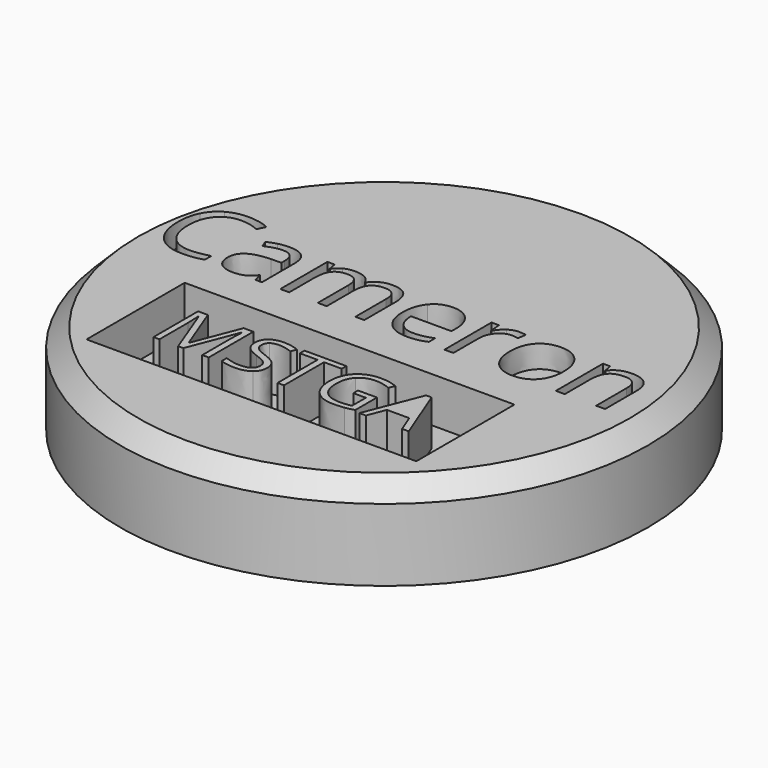
from build123d import *

# Parameters (mm, degrees)
F0_R     = 29.2480899821
F1_DEPTH = 7.5
F2_R     = 29.2480899821
F3_DEPTH = 2.5
F4_W     = 36.5422684699
F4_H     = 13.5971242562
F5_DEPTH = 5
F6_SIZE  = 2


with BuildPart() as f1:
    # F0 (on Top) → F1 (new body)
    with BuildSketch(Plane.XY):
        Circle(F0_R)
    extrude(amount=F1_DEPTH)

    # F2 (on face) → F3 (join)
    with BuildSketch(Plane.XY.offset(7.5)):
        Circle(F2_R)
        with BuildLine():
            add(Edge.make_bspline(
                [(-20.1253182964, 7.4627292011), (-21.1143776568, 7.9258147976), (-22.1034370172, 7.9258147976)],
                knots=[0, 0, 0, 1, 1, 1], degree=2))
            add(Edge.make_bspline(
                [(-22.1034370172, 7.9258147976), (-23.5384306557, 7.9258147976), (-24.3693167465, 6.9701052229)],
                knots=[0, 0, 0, 1, 1, 1], degree=2))
            add(Edge.make_bspline(
                [(-24.3693167465, 6.9701052229), (-25.2002028374, 6.0143956483), (-25.2002028374, 4.3526234666)],
                knots=[0, 0, 0, 1, 1, 1], degree=2))
            add(Edge.make_bspline(
                [(-25.2002028374, 4.3526234666), (-25.2002028374, 2.6451144359), (-24.3988551282, 1.7122732858)],
                knots=[0, 0, 0, 1, 1, 1], degree=2))
            add(Edge.make_bspline(
                [(-24.3988551282, 1.7122732858), (-23.5975074191, 0.7794321357), (-22.1148712295, 0.7794321357)],
                knots=[0, 0, 0, 1, 1, 1], degree=2))
            add(Edge.make_bspline(
                [(-22.1148712295, 0.7794321357), (-21.2039456528, 0.7794321357), (-20.0357503003, 1.1072128871)],
                knots=[0, 0, 0, 1, 1, 1], degree=2))
            Line((-20.0357503003, 1.1072128871), (-20.0357503003, 0.221061437))
            add(Edge.make_bspline(
                [(-20.0357503003, 0.221061437), (-20.9409587709, -0.1200592287), (-22.269233095, -0.1200592287)],
                knots=[0, 0, 0, 1, 1, 1], degree=2))
            add(Edge.make_bspline(
                [(-22.269233095, -0.1200592287), (-24.1920864565, -0.1200592287), (-25.2373640272, 1.0481361238)],
                knots=[0, 0, 0, 1, 1, 1], degree=2))
            add(Edge.make_bspline(
                [(-25.2373640272, 1.0481361238), (-26.2826415979, 2.2163314762), (-26.2826415979, 4.3659633809)],
                knots=[0, 0, 0, 1, 1, 1], degree=2))
            add(Edge.make_bspline(
                [(-26.2826415979, 4.3659633809), (-26.2826415979, 5.7113890234), (-25.7795362585, 6.7233168083)],
                knots=[0, 0, 0, 1, 1, 1], degree=2))
            add(Edge.make_bspline(
                [(-25.7795362585, 6.7233168083), (-25.2764309191, 7.7352445933), (-24.3264384506, 8.2831339307)],
                knots=[0, 0, 0, 1, 1, 1], degree=2))
            add(Edge.make_bspline(
                [(-24.3264384506, 8.2831339307), (-23.376445982, 8.8310232681), (-22.0900971029, 8.8310232681)],
                knots=[0, 0, 0, 1, 1, 1], degree=2))
            add(Edge.make_bspline(
                [(-22.0900971029, 8.8310232681), (-20.7218030359, 8.8310232681), (-19.6965353367, 8.3317293328)],
                knots=[0, 0, 0, 1, 1, 1], degree=2))
            Line((-19.6965353367, 8.3317293328), (-20.1253182964, 7.4627292011))
        make_face(mode=Mode.SUBTRACT)
        with BuildLine():
            Line((-13.5373063331, 0), (-14.2710016197, 0))
            Line((-14.2710016197, 0), (-14.4672889302, 0.9299825971))
            Line((-14.4672889302, 0.9299825971), (-14.5149314812, 0.9299825971))
            add(Edge.make_bspline(
                [(-14.5149314812, 0.9299825971), (-15.0027912043, 0.3163465392), (-15.4877923743, 0.0981436552)],
                knots=[0, 0, 0, 1, 1, 1], degree=2))
            add(Edge.make_bspline(
                [(-15.4877923743, 0.0981436552), (-15.9727935443, -0.1200592287), (-16.7007717248, -0.1200592287)],
                knots=[0, 0, 0, 1, 1, 1], degree=2))
            add(Edge.make_bspline(
                [(-16.7007717248, -0.1200592287), (-17.6707740648, -0.1200592287), (-18.2215219552, 0.3811404086)],
                knots=[0, 0, 0, 1, 1, 1], degree=2))
            add(Edge.make_bspline(
                [(-18.2215219552, 0.3811404086), (-18.7722698457, 0.882340046), (-18.7722698457, 1.8046998349)],
                knots=[0, 0, 0, 1, 1, 1], degree=2))
            add(Edge.make_bspline(
                [(-18.7722698457, 1.8046998349), (-18.7722698457, 3.7809128537), (-15.6107101561, 3.8761979558)],
                knots=[0, 0, 0, 1, 1, 1], degree=2))
            Line((-15.6107101561, 3.8761979558), (-14.503497269, 3.9124062947))
            Line((-14.503497269, 3.9124062947), (-14.503497269, 4.3183208299))
            add(Edge.make_bspline(
                [(-14.503497269, 4.3183208299), (-14.503497269, 5.0863187533), (-14.8331837225, 5.4522135455)],
                knots=[0, 0, 0, 1, 1, 1], degree=2))
            add(Edge.make_bspline(
                [(-14.8331837225, 5.4522135455), (-15.1628701759, 5.8181083378), (-15.8908483564, 5.8181083378)],
                knots=[0, 0, 0, 1, 1, 1], degree=2))
            add(Edge.make_bspline(
                [(-15.8908483564, 5.8181083378), (-16.7064888309, 5.8181083378), (-17.7355679342, 5.3188144025)],
                knots=[0, 0, 0, 1, 1, 1], degree=2))
            Line((-17.7355679342, 5.3188144025), (-18.0404802611, 6.0753781137))
            add(Edge.make_bspline(
                [(-18.0404802611, 6.0753781137), (-17.5583376442, 6.3364592936), (-16.9837684782, 6.485104053)],
                knots=[0, 0, 0, 1, 1, 1], degree=2))
            add(Edge.make_bspline(
                [(-16.9837684782, 6.485104053), (-16.4091993122, 6.6337488123), (-15.829865891, 6.6337488123)],
                knots=[0, 0, 0, 1, 1, 1], degree=2))
            add(Edge.make_bspline(
                [(-15.829865891, 6.6337488123), (-14.6635762406, 6.6337488123), (-14.1004412869, 6.1163507076)],
                knots=[0, 0, 0, 1, 1, 1], degree=2))
            add(Edge.make_bspline(
                [(-14.1004412869, 6.1163507076), (-13.5373063331, 5.5989526029), (-13.5373063331, 4.455531377)],
                knots=[0, 0, 0, 1, 1, 1], degree=2))
            Line((-13.5373063331, 4.455531377), (-13.5373063331, 0))
        make_face(mode=Mode.SUBTRACT)
        with BuildLine():
            Line((-2.1945677721, 0), (-3.1817214304, 0))
            Line((-3.1817214304, 0), (-3.1817214304, 4.2459041522))
            add(Edge.make_bspline(
                [(-3.1817214304, 4.2459041522), (-3.1817214304, 5.0272419899), (-3.515219288, 5.4169580577)],
                knots=[0, 0, 0, 1, 1, 1], degree=2))
            add(Edge.make_bspline(
                [(-3.515219288, 5.4169580577), (-3.8487171456, 5.8066741256), (-4.5519211995, 5.8066741256)],
                knots=[0, 0, 0, 1, 1, 1], degree=2))
            add(Edge.make_bspline(
                [(-4.5519211995, 5.8066741256), (-5.4742809884, 5.8066741256), (-5.9154510114, 5.2768889576)],
                knots=[0, 0, 0, 1, 1, 1], degree=2))
            add(Edge.make_bspline(
                [(-5.9154510114, 5.2768889576), (-6.3566210344, 4.7471037896), (-6.3566210344, 3.6456080086)],
                knots=[0, 0, 0, 1, 1, 1], degree=2))
            Line((-6.3566210344, 3.6456080086), (-6.3566210344, 0))
            Line((-6.3566210344, 0), (-7.3456803948, 0))
            Line((-7.3456803948, 0), (-7.3456803948, 4.2459041522))
            add(Edge.make_bspline(
                [(-7.3456803948, 4.2459041522), (-7.3456803948, 5.0272419899), (-7.6791782523, 5.4169580577)],
                knots=[0, 0, 0, 1, 1, 1], degree=2))
            add(Edge.make_bspline(
                [(-7.6791782523, 5.4169580577), (-8.0126761099, 5.8066741256), (-8.72159727, 5.8066741256)],
                knots=[0, 0, 0, 1, 1, 1], degree=2))
            add(Edge.make_bspline(
                [(-8.72159727, 5.8066741256), (-9.649674165, 5.8066741256), (-10.0813156778, 5.250209129)],
                knots=[0, 0, 0, 1, 1, 1], degree=2))
            add(Edge.make_bspline(
                [(-10.0813156778, 5.250209129), (-10.5129571906, 4.6937441324), (-10.5129571906, 3.4245465716)],
                knots=[0, 0, 0, 1, 1, 1], degree=2))
            Line((-10.5129571906, 3.4245465716), (-10.5129571906, 0))
            Line((-10.5129571906, 0), (-11.502016551, 0))
            Line((-11.502016551, 0), (-11.502016551, 6.5270294979))
            Line((-11.502016551, 6.5270294979), (-10.6978102888, 6.5270294979))
            Line((-10.6978102888, 6.5270294979), (-10.5377313171, 5.6332552396))
            Line((-10.5377313171, 5.6332552396), (-10.490088766, 5.6332552396))
            add(Edge.make_bspline(
                [(-10.490088766, 5.6332552396), (-10.2099505657, 6.1096807504), (-9.7001752691, 6.3783847385)],
                knots=[0, 0, 0, 1, 1, 1], degree=2))
            add(Edge.make_bspline(
                [(-9.7001752691, 6.3783847385), (-9.1903999726, 6.6470887266), (-8.5596125963, 6.6470887266)],
                knots=[0, 0, 0, 1, 1, 1], degree=2))
            add(Edge.make_bspline(
                [(-8.5596125963, 6.6470887266), (-7.0293338556, 6.6470887266), (-6.558625451, 5.5379701375)],
                knots=[0, 0, 0, 1, 1, 1], degree=2))
            Line((-6.558625451, 5.5379701375), (-6.5109828999, 5.5379701375))
            add(Edge.make_bspline(
                [(-6.5109828999, 5.5379701375), (-6.2194104873, 6.0506039871), (-5.6658040437, 6.3488463569)],
                knots=[0, 0, 0, 1, 1, 1], degree=2))
            add(Edge.make_bspline(
                [(-5.6658040437, 6.3488463569), (-5.1121976002, 6.6470887266), (-4.4032764401, 6.6470887266)],
                knots=[0, 0, 0, 1, 1, 1], degree=2))
            add(Edge.make_bspline(
                [(-4.4032764401, 6.6470887266), (-3.296063553, 6.6470887266), (-2.7453156625, 6.0782366667)],
                knots=[0, 0, 0, 1, 1, 1], degree=2))
            add(Edge.make_bspline(
                [(-2.7453156625, 6.0782366667), (-2.1945677721, 5.5093846068), (-2.1945677721, 4.2573383645)],
                knots=[0, 0, 0, 1, 1, 1], degree=2))
            Line((-2.1945677721, 4.2573383645), (-2.1945677721, 0))
        make_face(mode=Mode.SUBTRACT)
        with BuildLine():
            add(Edge.make_bspline(
                [(3.7283541781, -0.0209627225), (3.2614571776, -0.1200592287), (2.6001785686, -0.1200592287)],
                knots=[0, 0, 0, 1, 1, 1], degree=2))
            add(Edge.make_bspline(
                [(2.6001785686, -0.1200592287), (1.1537507178, -0.1200592287), (0.3161946698, 0.7622808173)],
                knots=[0, 0, 0, 1, 1, 1], degree=2))
            add(Edge.make_bspline(
                [(0.3161946698, 0.7622808173), (-0.5213613782, 1.6446208633), (-0.5213613782, 3.2092022407)],
                knots=[0, 0, 0, 1, 1, 1], degree=2))
            add(Edge.make_bspline(
                [(-0.5213613782, 3.2092022407), (-0.5213613782, 4.7890292345), (0.2561650555, 5.7180589806)],
                knots=[0, 0, 0, 1, 1, 1], degree=2))
            add(Edge.make_bspline(
                [(0.2561650555, 5.7180589806), (1.0336914891, 6.6470887266), (2.3448144948, 6.6470887266)],
                knots=[0, 0, 0, 1, 1, 1], degree=2))
            add(Edge.make_bspline(
                [(2.3448144948, 6.6470887266), (3.5701809086, 6.6470887266), (4.2848191748, 5.8400239113)],
                knots=[0, 0, 0, 1, 1, 1], degree=2))
            add(Edge.make_bspline(
                [(4.2848191748, 5.8400239113), (4.9994574409, 5.032959096), (4.9994574409, 3.7104018781)],
                knots=[0, 0, 0, 1, 1, 1], degree=2))
            Line((4.9994574409, 3.7104018781), (4.9994574409, 3.0853316079))
            Line((4.9994574409, 3.0853316079), (0.5039063211, 3.0853316079))
            add(Edge.make_bspline(
                [(0.5039063211, 3.0853316079), (0.5343975538, 1.9361932759), (1.0851454442, 1.3406613874)],
                knots=[0, 0, 0, 1, 1, 1], degree=2))
            add(Edge.make_bspline(
                [(1.0851454442, 1.3406613874), (1.6358933347, 0.7451294989), (2.6363869074, 0.7451294989)],
                knots=[0, 0, 0, 1, 1, 1], degree=2))
            add(Edge.make_bspline(
                [(2.6363869074, 0.7451294989), (3.6902401373, 0.7451294989), (4.7193192406, 1.1853466709)],
                knots=[0, 0, 0, 1, 1, 1], degree=2))
            Line((4.7193192406, 1.1853466709), (4.7193192406, 0.3030066249))
            add(Edge.make_bspline(
                [(4.7193192406, 0.3030066249), (4.1952511787, 0.0781337838), (3.7283541781, -0.0209627225)],
                knots=[0, 0, 0, 1, 1, 1], degree=2))
        make_face(mode=Mode.SUBTRACT)
        with BuildLine():
            add(Edge.make_bspline(
                [(8.5383461351, 6.3012038058), (9.0509799848, 6.6470887266), (9.6646160427, 6.6470887266)],
                knots=[0, 0, 0, 1, 1, 1], degree=2))
            add(Edge.make_bspline(
                [(9.6646160427, 6.6470887266), (10.0991161085, 6.6470887266), (10.4440481783, 6.574672049)],
                knots=[0, 0, 0, 1, 1, 1], degree=2))
            Line((10.4440481783, 6.574672049), (10.3068376312, 5.6580293662))
            add(Edge.make_bspline(
                [(10.3068376312, 5.6580293662), (9.9028287981, 5.7475973622), (9.592199365, 5.7475973622)],
                knots=[0, 0, 0, 1, 1, 1], degree=2))
            add(Edge.make_bspline(
                [(9.592199365, 5.7475973622), (8.7994273151, 5.7475973622), (8.2372452123, 5.1044229227)],
                knots=[0, 0, 0, 1, 1, 1], degree=2))
            add(Edge.make_bspline(
                [(8.2372452123, 5.1044229227), (7.6750631096, 4.4612484831), (7.6750631096, 3.5026803554)],
                knots=[0, 0, 0, 1, 1, 1], degree=2))
            Line((7.6750631096, 3.5026803554), (7.6750631096, 0))
            Line((7.6750631096, 0), (6.6860037492, 0))
            Line((6.6860037492, 0), (6.6860037492, 6.5270294979))
            Line((6.6860037492, 6.5270294979), (7.5016442236, 6.5270294979))
            Line((7.5016442236, 6.5270294979), (7.6159863462, 5.3188144025))
            Line((7.6159863462, 5.3188144025), (7.6636288973, 5.3188144025))
            add(Edge.make_bspline(
                [(7.6636288973, 5.3188144025), (8.0257122855, 5.9553188849), (8.5383461351, 6.3012038058)],
                knots=[0, 0, 0, 1, 1, 1], degree=2))
        make_face(mode=Mode.SUBTRACT)
        with BuildLine():
            add(Edge.make_bspline(
                [(16.4917936124, 5.735210299), (17.2988584276, 4.8233318713), (17.2988584276, 3.2701847061)],
                knots=[0, 0, 0, 1, 1, 1], degree=2))
            add(Edge.make_bspline(
                [(17.2988584276, 3.2701847061), (17.2988584276, 1.6732063939), (16.4956050164, 0.7765735826)],
                knots=[0, 0, 0, 1, 1, 1], degree=2))
            add(Edge.make_bspline(
                [(16.4956050164, 0.7765735826), (15.6923516052, -0.1200592287), (14.2745092851, -0.1200592287)],
                knots=[0, 0, 0, 1, 1, 1], degree=2))
            add(Edge.make_bspline(
                [(14.2745092851, -0.1200592287), (13.3978863453, -0.1200592287), (12.7194564179, 0.2915724126)],
                knots=[0, 0, 0, 1, 1, 1], degree=2))
            add(Edge.make_bspline(
                [(12.7194564179, 0.2915724126), (12.0410264905, 0.7032040539), (11.6713202941, 1.4712019773)],
                knots=[0, 0, 0, 1, 1, 1], degree=2))
            add(Edge.make_bspline(
                [(11.6713202941, 1.4712019773), (11.3016140977, 2.2391999007), (11.3016140977, 3.2701847061)],
                knots=[0, 0, 0, 1, 1, 1], degree=2))
            add(Edge.make_bspline(
                [(11.3016140977, 3.2701847061), (11.3016140977, 4.8652573162), (12.1001032538, 5.7561730214)],
                knots=[0, 0, 0, 1, 1, 1], degree=2))
            add(Edge.make_bspline(
                [(12.1001032538, 5.7561730214), (12.8985924099, 6.6470887266), (14.3164347301, 6.6470887266)],
                knots=[0, 0, 0, 1, 1, 1], degree=2))
            add(Edge.make_bspline(
                [(14.3164347301, 6.6470887266), (15.6847287971, 6.6470887266), (16.4917936124, 5.735210299)],
                knots=[0, 0, 0, 1, 1, 1], degree=2))
        make_face(mode=Mode.SUBTRACT)
        with BuildLine():
            Line((24.4890722366, 0), (23.5000128762, 0))
            Line((23.5000128762, 0), (23.5000128762, 4.2230357277))
            add(Edge.make_bspline(
                [(23.5000128762, 4.2230357277), (23.5000128762, 5.0196191817), (23.1369766369, 5.4131466537)],
                knots=[0, 0, 0, 1, 1, 1], degree=2))
            add(Edge.make_bspline(
                [(23.1369766369, 5.4131466537), (22.7739403977, 5.8066741256), (21.9983196661, 5.8066741256)],
                knots=[0, 0, 0, 1, 1, 1], degree=2))
            add(Edge.make_bspline(
                [(21.9983196661, 5.8066741256), (20.9749576689, 5.8066741256), (20.4985321581, 5.253067682)],
                knots=[0, 0, 0, 1, 1, 1], degree=2))
            add(Edge.make_bspline(
                [(20.4985321581, 5.253067682), (20.0221066474, 4.6994612385), (20.0221066474, 3.4245465716)],
                knots=[0, 0, 0, 1, 1, 1], degree=2))
            Line((20.0221066474, 3.4245465716), (20.0221066474, 0))
            Line((20.0221066474, 0), (19.0330472869, 0))
            Line((19.0330472869, 0), (19.0330472869, 6.5270294979))
            Line((19.0330472869, 6.5270294979), (19.8372535492, 6.5270294979))
            Line((19.8372535492, 6.5270294979), (19.9973325208, 5.6332552396))
            Line((19.9973325208, 5.6332552396), (20.0449750719, 5.6332552396))
            add(Edge.make_bspline(
                [(20.0449750719, 5.6332552396), (20.3498873988, 6.1153978566), (20.8977767362, 6.3812432916)],
                knots=[0, 0, 0, 1, 1, 1], degree=2))
            add(Edge.make_bspline(
                [(20.8977767362, 6.3812432916), (21.4456660736, 6.6470887266), (22.1183788949, 6.6470887266)],
                knots=[0, 0, 0, 1, 1, 1], degree=2))
            add(Edge.make_bspline(
                [(22.1183788949, 6.6470887266), (23.2980084596, 6.6470887266), (23.8935403481, 6.0782366667)],
                knots=[0, 0, 0, 1, 1, 1], degree=2))
            add(Edge.make_bspline(
                [(23.8935403481, 6.0782366667), (24.4890722366, 5.5093846068), (24.4890722366, 4.2573383645)],
                knots=[0, 0, 0, 1, 1, 1], degree=2))
            Line((24.4890722366, 4.2573383645), (24.4890722366, 0))
        make_face(mode=Mode.SUBTRACT)
    extrude(amount=F3_DEPTH)

    # F4 (on face) → F5 (cut)
    with BuildSketch(Plane.XY.offset(10)):
        with Locations((-0.4249094054, -11.0476627015)):
            Rectangle(F4_W, F4_H)
        with BuildLine():
            Line((-11.1339717914, -13.8803971931), (-11.7128133627, -13.8803971931))
            Line((-11.7128133627, -13.8803971931), (-13.8090854081, -8.4030412036))
            Line((-13.8090854081, -8.4030412036), (-13.8428962475, -8.4030412036))
            add(Edge.make_bspline(
                [(-13.8428962475, -8.4030412036), (-13.7833891701, -9.0535617544), (-13.7833891701, -9.9502252164)],
                knots=[0, 0, 0, 1, 1, 1], degree=2))
            Line((-13.7833891701, -9.9502252164), (-13.7833891701, -13.8803971931))
            Line((-13.7833891701, -13.8803971931), (-14.4474340567, -13.8803971931))
            Line((-14.4474340567, -13.8803971931), (-14.4474340567, -7.7011281768))
            Line((-14.4474340567, -7.7011281768), (-13.3654871946, -7.7011281768))
            Line((-13.3654871946, -7.7011281768), (-11.4085158077, -12.798450331))
            Line((-11.4085158077, -12.798450331), (-11.3747049682, -12.798450331))
            Line((-11.3747049682, -12.798450331), (-9.4015043784, -7.7011281768))
            Line((-9.4015043784, -7.7011281768), (-8.3276721178, -7.7011281768))
            Line((-8.3276721178, -7.7011281768), (-8.3276721178, -13.8803971931))
            Line((-8.3276721178, -13.8803971931), (-9.0458143475, -13.8803971931))
            Line((-9.0458143475, -13.8803971931), (-9.0458143475, -9.8988327405))
            add(Edge.make_bspline(
                [(-9.0458143475, -9.8988327405), (-9.0458143475, -9.2145013502), (-8.9863072701, -8.411155805)],
                knots=[0, 0, 0, 1, 1, 1], degree=2))
            Line((-8.9863072701, -8.411155805), (-9.0201181095, -8.411155805))
            Line((-9.0201181095, -8.411155805), (-11.1339717914, -13.8803971931))
        make_face(mode=Mode.SUBTRACT)
        with BuildLine():
            add(Edge.make_bspline(
                [(-3.5116561477, -11.2052835765), (-3.1464990817, -11.6028990483), (-3.1464990817, -12.2358379627)],
                knots=[0, 0, 0, 1, 1, 1], degree=2))
            add(Edge.make_bspline(
                [(-3.1464990817, -12.2358379627), (-3.1464990817, -13.05135541), (-3.7381887719, -13.5084779593)],
                knots=[0, 0, 0, 1, 1, 1], degree=2))
            add(Edge.make_bspline(
                [(-3.7381887719, -13.5084779593), (-4.3298784622, -13.9656005085), (-5.3442036454, -13.9656005085)],
                knots=[0, 0, 0, 1, 1, 1], degree=2))
            add(Edge.make_bspline(
                [(-5.3442036454, -13.9656005085), (-6.4423797105, -13.9656005085), (-7.0347456175, -13.6815894572)],
                knots=[0, 0, 0, 1, 1, 1], degree=2))
            Line((-7.0347456175, -13.6815894572), (-7.0347456175, -12.9891434654))
            add(Edge.make_bspline(
                [(-7.0347456175, -12.9891434654), (-6.6533593486, -13.1487306276), (-6.2057038344, -13.2420485445)],
                knots=[0, 0, 0, 1, 1, 1], degree=2))
            add(Edge.make_bspline(
                [(-6.2057038344, -13.2420485445), (-5.7580483202, -13.3353664613), (-5.3185074074, -13.3353664613)],
                knots=[0, 0, 0, 1, 1, 1], degree=2))
            add(Edge.make_bspline(
                [(-5.3185074074, -13.3353664613), (-4.6003651777, -13.3353664613), (-4.2365605453, -13.0628510954)],
                knots=[0, 0, 0, 1, 1, 1], degree=2))
            add(Edge.make_bspline(
                [(-4.2365605453, -13.0628510954), (-3.8727559129, -12.7903357295), (-3.8727559129, -12.3034596416)],
                knots=[0, 0, 0, 1, 1, 1], degree=2))
            add(Edge.make_bspline(
                [(-3.8727559129, -12.3034596416), (-3.8727559129, -11.9829328837), (-4.0019133196, -11.7780391966)],
                knots=[0, 0, 0, 1, 1, 1], degree=2))
            add(Edge.make_bspline(
                [(-4.0019133196, -11.7780391966), (-4.1310707262, -11.5731455096), (-4.4333396309, -11.3993577949)],
                knots=[0, 0, 0, 1, 1, 1], degree=2))
            add(Edge.make_bspline(
                [(-4.4333396309, -11.3993577949), (-4.7356085355, -11.2255700802), (-5.3523182469, -11.0064758406)],
                knots=[0, 0, 0, 1, 1, 1], degree=2))
            add(Edge.make_bspline(
                [(-5.3523182469, -11.0064758406), (-6.2138184359, -10.6981209849), (-6.5837090193, -10.2754854919)],
                knots=[0, 0, 0, 1, 1, 1], degree=2))
            add(Edge.make_bspline(
                [(-6.5837090193, -10.2754854919), (-6.9535996028, -9.8528499988), (-6.9535996028, -9.1725759093)],
                knots=[0, 0, 0, 1, 1, 1], degree=2))
            add(Edge.make_bspline(
                [(-6.9535996028, -9.1725759093), (-6.9535996028, -8.4584909802), (-6.4173596893, -8.0358554872)],
                knots=[0, 0, 0, 1, 1, 1], degree=2))
            add(Edge.make_bspline(
                [(-6.4173596893, -8.0358554872), (-5.8811197757, -7.6132199942), (-4.996628216, -7.6132199942)],
                knots=[0, 0, 0, 1, 1, 1], degree=2))
            add(Edge.make_bspline(
                [(-4.996628216, -7.6132199942), (-4.0756209496, -7.6132199942), (-3.3020289431, -7.9513283886)],
                knots=[0, 0, 0, 1, 1, 1], degree=2))
            Line((-3.3020289431, -7.9513283886), (-3.526532917, -8.5761527015))
            add(Edge.make_bspline(
                [(-3.526532917, -8.5761527015), (-4.292010322, -8.2556259436), (-5.0142098525, -8.2556259436)],
                knots=[0, 0, 0, 1, 1, 1], degree=2))
            add(Edge.make_bspline(
                [(-5.0142098525, -8.2556259436), (-5.5849368222, -8.2556259436), (-5.9061397969, -8.5004164212)],
                knots=[0, 0, 0, 1, 1, 1], degree=2))
            add(Edge.make_bspline(
                [(-5.9061397969, -8.5004164212), (-6.2273427716, -8.7452068987), (-6.2273427716, -9.1806905107)],
                knots=[0, 0, 0, 1, 1, 1], degree=2))
            add(Edge.make_bspline(
                [(-6.2273427716, -9.1806905107), (-6.2273427716, -9.5012172686), (-6.1090048336, -9.7067871724)],
                knots=[0, 0, 0, 1, 1, 1], degree=2))
            add(Edge.make_bspline(
                [(-6.1090048336, -9.7067871724), (-5.9906668955, -9.9123570762), (-5.7093607114, -10.0834399238)],
                knots=[0, 0, 0, 1, 1, 1], degree=2))
            add(Edge.make_bspline(
                [(-5.7093607114, -10.0834399238), (-5.4280545272, -10.2545227714), (-4.849212956, -10.4614451088)],
                knots=[0, 0, 0, 1, 1, 1], degree=2))
            add(Edge.make_bspline(
                [(-4.849212956, -10.4614451088), (-3.8768132136, -10.8076681047), (-3.5116561477, -11.2052835765)],
                knots=[0, 0, 0, 1, 1, 1], degree=2))
        make_face(mode=Mode.SUBTRACT)
        Polygon((0.0195479236, -8.3394768254), (0.0195479236, -13.8803971931), (-0.6985943061, -13.8803971931), (-0.6985943061, -8.3394768254), (-2.655565693, -8.3394768254), (-2.655565693, -7.7011281768), (1.9765193105, -7.7011281768), (1.9765193105, -8.3394768254), align=None, mode=Mode.SUBTRACT)
        with BuildLine():
            Line((5.6253851031, -11.2850771576), (5.6253851031, -10.6426712082))
            Line((5.6253851031, -10.6426712082), (7.7257144492, -10.6426712082))
            Line((7.7257144492, -10.6426712082), (7.7257144492, -13.6477786178))
            add(Edge.make_bspline(
                [(7.7257144492, -13.6477786178), (7.2347810605, -13.8046609128), (6.7276184689, -13.8851307107)],
                knots=[0, 0, 0, 1, 1, 1], degree=2))
            add(Edge.make_bspline(
                [(6.7276184689, -13.8851307107), (6.2204558773, -13.9656005085), (5.5523536899, -13.9656005085)],
                knots=[0, 0, 0, 1, 1, 1], degree=2))
            add(Edge.make_bspline(
                [(5.5523536899, -13.9656005085), (4.1498800698, -13.9656005085), (3.3681734619, -13.1304727743)],
                knots=[0, 0, 0, 1, 1, 1], degree=2))
            add(Edge.make_bspline(
                [(3.3681734619, -13.1304727743), (2.5864668541, -12.2953450401), (2.5864668541, -10.7914389017)],
                knots=[0, 0, 0, 1, 1, 1], degree=2))
            add(Edge.make_bspline(
                [(2.5864668541, -10.7914389017), (2.5864668541, -9.8271537609), (2.9732628573, -9.1022493632)],
                knots=[0, 0, 0, 1, 1, 1], degree=2))
            add(Edge.make_bspline(
                [(2.9732628573, -9.1022493632), (3.3600588605, -8.3773449656), (4.0869919085, -7.9952824799)],
                knots=[0, 0, 0, 1, 1, 1], degree=2))
            add(Edge.make_bspline(
                [(4.0869919085, -7.9952824799), (4.8139249565, -7.6132199942), (5.789029566, -7.6132199942)],
                knots=[0, 0, 0, 1, 1, 1], degree=2))
            add(Edge.make_bspline(
                [(5.789029566, -7.6132199942), (6.7790109448, -7.6132199942), (7.6323965323, -7.975672193)],
                knots=[0, 0, 0, 1, 1, 1], degree=2))
            Line((7.6323965323, -7.975672193), (7.3537952153, -8.6099635409))
            add(Edge.make_bspline(
                [(7.3537952153, -8.6099635409), (6.5166388308, -8.2556259436), (5.7430468243, -8.2556259436)],
                knots=[0, 0, 0, 1, 1, 1], degree=2))
            add(Edge.make_bspline(
                [(5.7430468243, -8.2556259436), (4.6151172206, -8.2556259436), (3.9808258726, -8.9271092149)],
                knots=[0, 0, 0, 1, 1, 1], degree=2))
            add(Edge.make_bspline(
                [(3.9808258726, -8.9271092149), (3.3465345247, -9.5985924862), (3.3465345247, -10.7914389017)],
                knots=[0, 0, 0, 1, 1, 1], degree=2))
            add(Edge.make_bspline(
                [(3.3465345247, -10.7914389017), (3.3465345247, -12.0424399611), (3.957158285, -12.6889032112)],
                knots=[0, 0, 0, 1, 1, 1], degree=2))
            add(Edge.make_bspline(
                [(3.957158285, -12.6889032112), (4.5677820453, -13.3353664613), (5.7511614258, -13.3353664613)],
                knots=[0, 0, 0, 1, 1, 1], degree=2))
            add(Edge.make_bspline(
                [(5.7511614258, -13.3353664613), (6.3935673752, -13.3353664613), (7.0062197859, -13.1865987678)],
                knots=[0, 0, 0, 1, 1, 1], degree=2))
            Line((7.0062197859, -13.1865987678), (7.0062197859, -11.2850771576))
            Line((7.0062197859, -11.2850771576), (5.6253851031, -11.2850771576))
        make_face(mode=Mode.SUBTRACT)
        Polygon((13.8360093531, -13.8803971931), (13.0921708854, -13.8803971931), (12.3226361797, -11.9153112048), (9.846330299, -11.9153112048), (9.0862626283, -13.8803971931), (8.3586533636, -13.8803971931), (10.8011484048, -7.6754319388), (11.405686214, -7.6754319388), align=None, mode=Mode.SUBTRACT)
    extrude(amount=-F5_DEPTH, mode=Mode.SUBTRACT)

    # F6
    f6_edges = [f1.edges().sort_by_distance(p)[0] for p in [
        (-29.24809, 0, 10),
    ]]
    chamfer(f6_edges, length=F6_SIZE)


with BuildPart() as f7_1:
    # F7: copy of F1
    add(f1.part)


solid = Compound([f1.part, f7_1.part])
